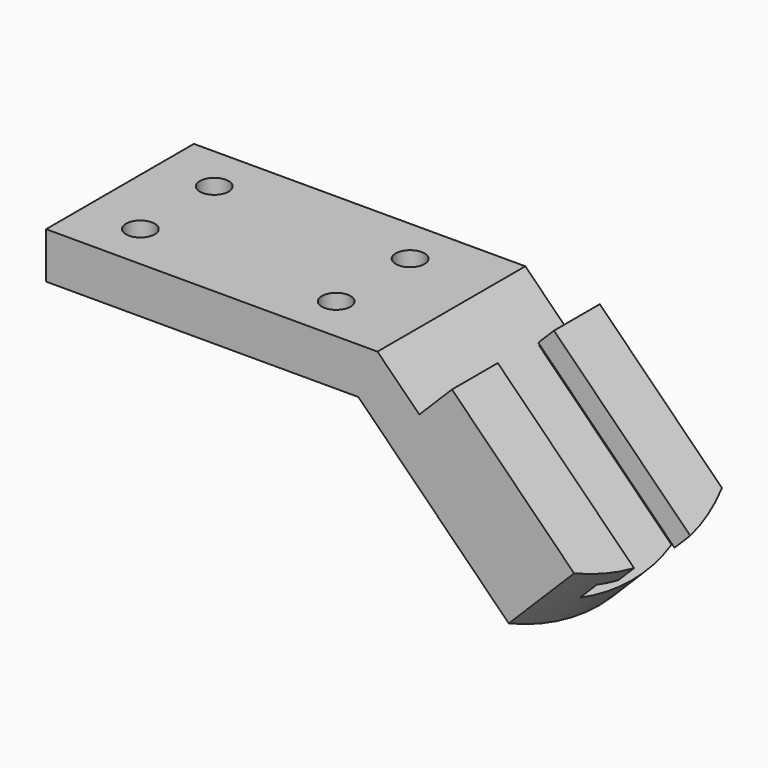
from build123d import *

# Parameters (mm, degrees)
F1_DEPTH       = 50.8
F3_DEPTH       = 50.8
F5_DEPTH       = 53.848
F7_D           = 7.9248
F7_CBORE_D     = 12.7
F7_CBORE_DEPTH = 6.096


with BuildPart() as f1:
    # F0 (on Front) → F1 (new body)
    with BuildSketch(Plane.XZ):
        Polygon((0, 12.7), (0, 0), (85.852, 0), (131.70327, -45.85127), (149.663782, -27.890758), (111.587496, 10.185528), (102.60724, 1.205272), (91.112512, 12.7), align=None)
    extrude(amount=F1_DEPTH)

    # F2 (on face) → F3 (cut)
    with BuildSketch(Plane(origin=(60.886512, 0, 60.886512), x_dir=(0.707107, 0, -0.707107), z_dir=(0.707107, 0, 0.707107))):
        with BuildLine():
            ThreePointArc((119.183037, 0), (123.934026, -12.307078), (125.550019, -25.4))
            Line((125.550019, -25.4), (125.550019, 0))
            Line((125.550019, 0), (119.183037, 0))
        make_face()
        with BuildLine():
            ThreePointArc((125.550019, -25.4), (123.934026, -38.492922), (119.183037, -50.8))
            Line((119.183037, -50.8), (125.550019, -50.8))
            Line((125.550019, -50.8), (125.550019, -25.4))
        make_face()
    extrude(amount=-F3_DEPTH, mode=Mode.SUBTRACT)

    # F4 (on face) → F5 (cut)
    with BuildSketch(Plane(origin=(50.700984, 0, -50.700984), x_dir=(0, -1, 0), z_dir=(-0.707107, 0, 0.707107))):
        Polygon((9.652, 80.010531), (9.652, 73.406531), (41.148, 73.406531), (41.148, 80.010531), (35.052, 80.010531), (35.052, 86.106531), (15.748, 86.106531), (15.748, 80.010531), align=None)
    extrude(amount=-F5_DEPTH, mode=Mode.SUBTRACT)

    # F7 (through all)
    with Locations(Plane(origin=(0, 0, 0), x_dir=(1, 0, 0), z_dir=(0, 0, -1))):
        with Locations((15.748, 38.1), (15.748, 12.7), (69.596, 12.7), (69.596, 38.1)):
            CounterBoreHole(F7_D / 2, F7_CBORE_D / 2, F7_CBORE_DEPTH)


solid = f1.part
